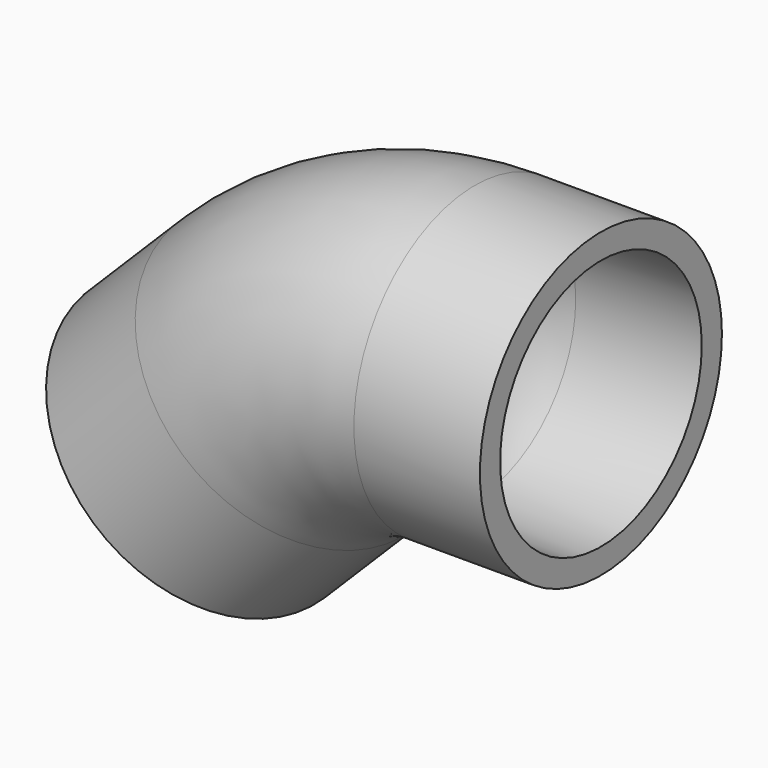
from build123d import *

# Parameters (mm, degrees)
F1_R   = 12
F1_R_2 = 10


with BuildPart() as f2:
    # F2: sweep along a path in F0
    with BuildLine(Plane.XZ) as f2_path:
        Line((4.8e-05, -4.3e-05), (-9.999952, -4.3e-05))
        ThreePointArc((-9.999952, -4.3e-05), (-17.65362, -1.522453), (-24.142087, -5.857908))
        Line((-24.142087, -5.857908), (-31.213155, -12.928976))
    # F1 (on Right) → F2 (sweep)
    with BuildSketch(Plane.YZ):
        Circle(F1_R)
        Circle(F1_R_2, mode=Mode.SUBTRACT)
    sweep(path=f2_path.line)


solid = f2.part
